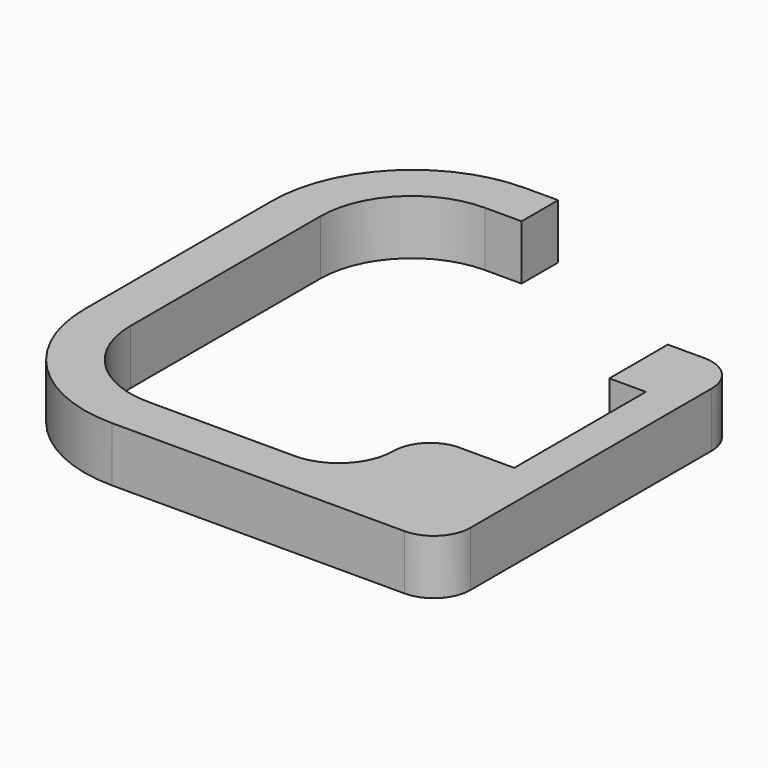
from build123d import *

# Parameters (mm, degrees)
F1_DEPTH = 3
F2_R     = 2


with BuildPart() as f1:
    # F0 (on Top) → F1 (new body)
    with BuildSketch(Plane.XY):
        with BuildLine():
            Line((0, -20.5), (0, 0))
            Line((0, 0), (-4, 0))
            Line((-4, 0), (-4, -4))
            Line((-4, -4), (-2, -4))
            Line((-2, -4), (-2, -13))
            Line((-2, -13), (-5, -13))
            ThreePointArc((-5, -13), (-6.414214, -13.585786), (-7, -15))
            ThreePointArc((-7, -15), (-7.87868, -17.12132), (-10, -18))
            Line((-10, -18), (-18, -18))
            ThreePointArc((-18, -18), (-21.535534, -16.535534), (-23, -13))
            Line((-23, -13), (-23, 0))
            ThreePointArc((-23, 0), (-21.535534, 3.535534), (-18, 5))
            Line((-18, 5), (-16, 5))
            Line((-16, 5), (-16, 7.5))
            Line((-16, 7.5), (-17.8, 7.5))
            ThreePointArc((-17.8, 7.5), (-23.244722, 5.244722), (-25.5, -0.2))
            Line((-25.5, -0.2), (-25.5, -13))
            ThreePointArc((-25.5, -13), (-23.303301, -18.303301), (-18, -20.5))
            Line((-18, -20.5), (0, -20.5))
        make_face()
    extrude(amount=F1_DEPTH)

    # F2
    f2_edges = [f1.edges().sort_by_distance(p)[0] for p in [
        (-25.5, -13, 1.5),
        (-25.5, -0.2, 1.5),
        (0, 0, 1.5),
        (0, -20.5, 1.5),
        (-18, -20.5, 1.5),
    ]]
    fillet(f2_edges, radius=F2_R)


solid = f1.part
